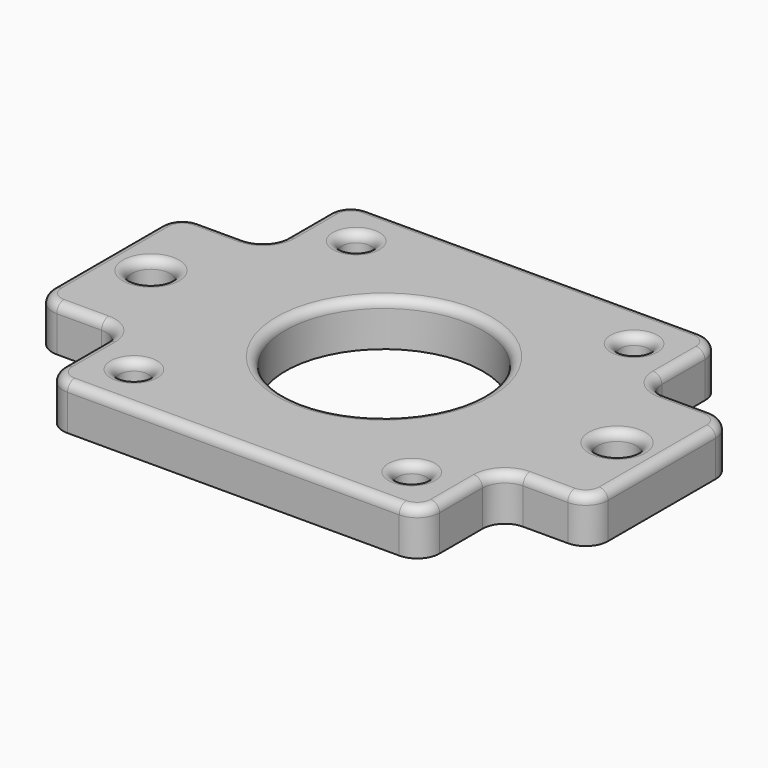
from build123d import *

# Parameters (mm, degrees)
SKETCH_R    = 11
SKETCH_R_2  = 1.6
SKETCH_R_3  = 2.15
PAD_DEPTH   = 5
FILLET_R    = 2.5
FILLET001_R = 1


with BuildPart() as part:
    # Sketch → Pad (new body)
    with BuildSketch(Plane.XY):
        Polygon((21, -21), (21, -10), (31, -10), (31, 10), (21, 10), (21, 21), (-21, 21), (-21, 10), (-31, 10), (-31, -10), (-21, -10), (-21, -21), align=None)
        Circle(SKETCH_R, mode=Mode.SUBTRACT)
        with Locations((-15.5, -15.5)):
            Circle(SKETCH_R_2, mode=Mode.SUBTRACT)
        with Locations((15.5, -15.5)):
            Circle(SKETCH_R_2, mode=Mode.SUBTRACT)
        with Locations((15.5, 15.5)):
            Circle(SKETCH_R_2, mode=Mode.SUBTRACT)
        with Locations((-15.5, 15.5)):
            Circle(SKETCH_R_2, mode=Mode.SUBTRACT)
        with Locations((26, 0)):
            Circle(SKETCH_R_3, mode=Mode.SUBTRACT)
        with Locations((-26, 0)):
            Circle(SKETCH_R_3, mode=Mode.SUBTRACT)
    extrude(amount=PAD_DEPTH)

    # Fillet
    fillet_edges = [part.edges().sort_by_distance(p)[0] for p in [
        (31, 10, 2.5),
        (21, 21, 2.5),
        (21, -10, 2.5),
        (21, -21, 2.5),
        (-21, -21, 2.5),
        (-21, -10, 2.5),
        (-31, -10, 2.5),
        (-31, 10, 2.5),
        (-21, 10, 2.5),
        (-21, 21, 2.5),
        (21, 10, 2.5),
        (31, -10, 2.5),
    ]]
    fillet(fillet_edges, radius=FILLET_R)

    # Fillet001
    fillet001_edges = [part.edges().sort_by_distance(p)[0] for p in [
        (21, -15.5, 5),
        (20.267767, -20.267767, 5),
        (21.732233, -10.732233, 5),
        (0, -21, 5),
        (26, -10, 5),
        (-20.267767, -20.267767, 5),
        (30.267767, -9.267767, 5),
        (-21, -15.5, 5),
        (31, 0, 5),
        (-21.732233, -10.732233, 5),
        (30.267767, 9.267767, 5),
        (-26, -10, 5),
        (26, 10, 5),
        (-30.267767, -9.267767, 5),
        (21.732233, 10.732233, 5),
        (-31, 0, 5),
        (21, 15.5, 5),
        (-30.267767, 9.267767, 5),
        (20.267767, 20.267767, 5),
        (-26, 10, 5),
        (0, 21, 5),
        (-21.732233, 10.732233, 5),
        (-20.267767, 20.267767, 5),
        (-21, 15.5, 5),
        (-11, 0, 5),
        (-28.15, 0, 5),
        (23.85, 0, 5),
        (-17.1, 15.5, 5),
        (13.9, 15.5, 5),
        (13.9, -15.5, 5),
        (-17.1, -15.5, 5),
    ]]
    fillet(fillet001_edges, radius=FILLET001_R)


solid = part.part
